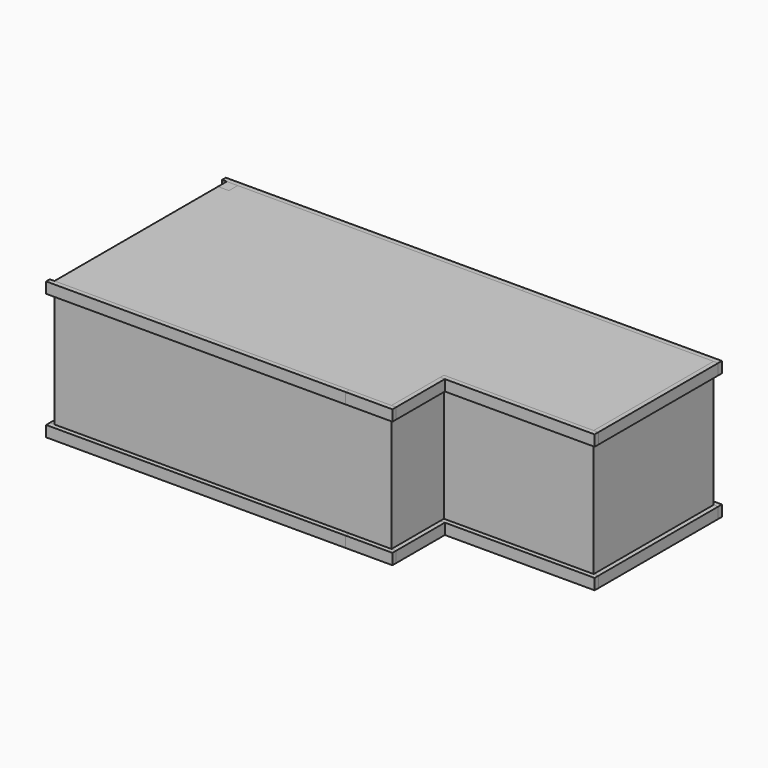
from build123d import *

# Parameters (mm, degrees)
F1_DEPTH  = 1117.6
F2_W      = 2438.4
F2_H      = 38.1
F3_DEPTH  = 88.9
F4_W      = 2438.4
F4_H      = 38.1
F5_DEPTH  = 88.9
F6_W      = 38.1
F6_H      = 1752.6
F7_DEPTH  = 88.9
F8_W      = 1600.2
F8_H      = 38.1
F9_DEPTH  = 88.9
F10_W     = 381
F10_H     = 38.1
F11_DEPTH = 88.9
F12_W     = 1257.3
F12_H     = 38.1
F13_DEPTH = 88.9
F14_W     = 38.1
F14_H     = 495.3
F15_DEPTH = 88.9
F16_W     = 38.1
F16_H     = 1219.2
F17_DEPTH = 88.9
F21_W     = 88.9
F21_H     = 88.9
F22_DEPTH = 1117.6


with BuildPart() as f1:
    # F0 (on Top) → F1 (new body)
    with BuildSketch(Plane.XY):
        Polygon((3962.4, 0), (0, 0), (0, -1752.6), (2743.2, -1752.6), (2743.2, -1219.2), (3962.4, -1219.2), align=None)
    extrude(amount=F1_DEPTH)


with BuildPart() as f3:
    # F2 (on Top) → F3 (new body)
    with BuildSketch(Plane.XY):
        with Locations((1181.1, -1771.65)):
            Rectangle(F2_W, F2_H)
    extrude(amount=F3_DEPTH)


with BuildPart() as f5:
    # F4 (on Top) → F5 (new body)
    with BuildSketch(Plane.XY):
        with Locations((1181.1, 19.05)):
            Rectangle(F4_W, F4_H)
    extrude(amount=F5_DEPTH)


with BuildPart() as f7:
    # F6 (on Top) → F7 (new body)
    with BuildSketch(Plane.XY):
        with Locations((-19.05, -876.3)):
            Rectangle(F6_W, F6_H)
    extrude(amount=F7_DEPTH)


with BuildPart() as f9:
    # F8 (on Top) → F9 (new body)
    with BuildSketch(Plane.XY):
        with Locations((3200.4, 19.05)):
            Rectangle(F8_W, F8_H)
    extrude(amount=F9_DEPTH)


with BuildPart() as f11:
    # F10 (on Top) → F11 (new body)
    with BuildSketch(Plane.XY):
        with Locations((2590.8, -1771.65)):
            Rectangle(F10_W, F10_H)
    extrude(amount=F11_DEPTH)


with BuildPart() as f13:
    # F12 (on Top) → F13 (new body)
    with BuildSketch(Plane.XY):
        with Locations((3371.85, -1238.25)):
            Rectangle(F12_W, F12_H)
    extrude(amount=F13_DEPTH)


with BuildPart() as f15:
    # F14 (on Top) → F15 (new body)
    with BuildSketch(Plane.XY):
        with Locations((2762.25, -1504.95)):
            Rectangle(F14_W, F14_H)
    extrude(amount=F15_DEPTH)


with BuildPart() as f17:
    # F16 (on Top) → F17 (new body)
    with BuildSketch(Plane.XY):
        with Locations((3981.45, -609.6)):
            Rectangle(F16_W, F16_H)
    extrude(amount=F17_DEPTH)


with BuildPart() as f19_1:
    # F19: instance of F3
    add(f3.part.mirror(Plane.XY.offset(558.8)))


with BuildPart() as f19_2:
    # F19: instance of F5
    add(f5.part.mirror(Plane.XY.offset(558.8)))


with BuildPart() as f19_3:
    # F19: instance of F7
    add(f7.part.mirror(Plane.XY.offset(558.8)))


with BuildPart() as f19_4:
    # F19: instance of F9
    add(f9.part.mirror(Plane.XY.offset(558.8)))


with BuildPart() as f19_5:
    # F19: instance of F11
    add(f11.part.mirror(Plane.XY.offset(558.8)))


with BuildPart() as f19_6:
    # F19: instance of F13
    add(f13.part.mirror(Plane.XY.offset(558.8)))


with BuildPart() as f19_7:
    # F19: instance of F15
    add(f15.part.mirror(Plane.XY.offset(558.8)))


with BuildPart() as f19_8:
    # F19: instance of F17
    add(f17.part.mirror(Plane.XY.offset(558.8)))


with BuildPart() as f22:
    # F21 (on Top) → F22 (new body)
    with BuildSketch(Plane.XY):
        with Locations((44.45, -44.45)):
            Rectangle(F21_W, F21_H)
    extrude(amount=F22_DEPTH)


solid = Compound([f1.part, f3.part, f5.part, f7.part, f9.part, f11.part, f13.part, f15.part, f17.part, f19_1.part, f19_2.part, f19_4.part, f19_5.part, f19_6.part, f19_7.part, f19_8.part, f22.part])
